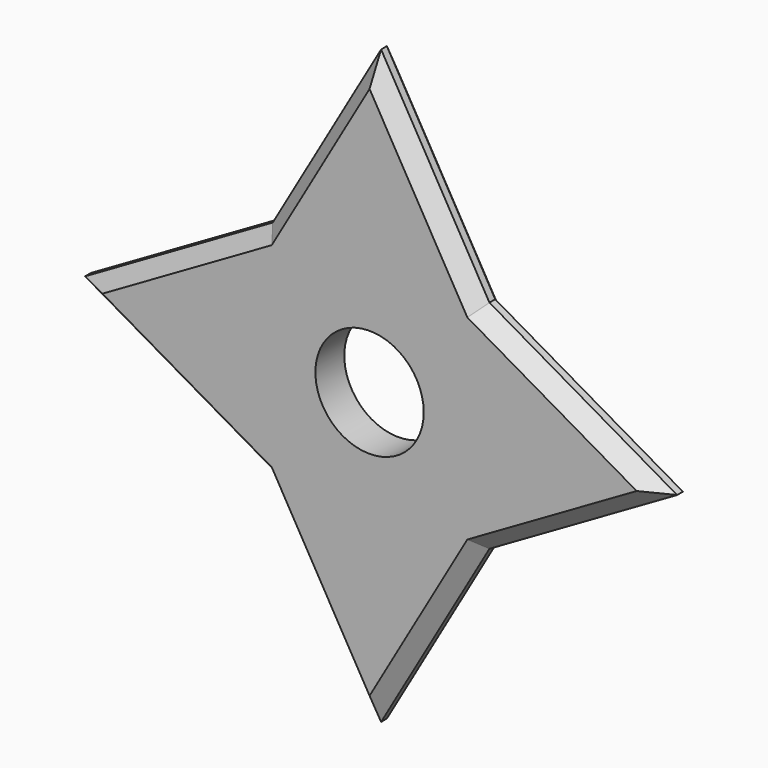
from build123d import *

# Parameters (mm, degrees)
F0_W     = 38.1
F0_H     = 38.1
F0_R     = 9.525
F1_DEPTH = 6.35
F2_SIZE  = 2.54
F3_SIZE  = 2.54


with BuildPart() as f1:
    # F0 (on Front) → F1 (new body)
    with BuildSketch(Plane.XZ):
        with Locations((19.05, 19.05)):
            Rectangle(F0_W, F0_H)
        with Locations((19.05, 19.05)):
            Circle(F0_R, mode=Mode.SUBTRACT)
        Polygon((19.05, 71.095568), (0, 38.1), (38.1, 38.1), align=None)
        Polygon((-32.995568, 19.05), (0, 0), (0, 38.1), align=None)
        Polygon((38.1, 38.1), (38.1, 0), (71.095568, 19.05), align=None)
        Polygon((38.1, 0), (0, 0), (19.05, -32.995568), align=None)
    extrude(amount=F1_DEPTH)

    # F2
    f2_edges = [f1.edges().sort_by_distance(p)[0] for p in [
        (9.525, -6.35, 54.597784),
        (-16.497784, -6.35, 28.575),
        (-16.497784, -6.35, 9.525),
        (9.525, -6.35, -16.497784),
        (28.575, -6.35, -16.497784),
        (54.597784, -6.35, 9.525),
        (54.597784, -6.35, 28.575),
        (28.575, -6.35, 54.597784),
    ]]
    chamfer(f2_edges, length=F2_SIZE)

    # F3
    f3_edges = [f1.edges().sort_by_distance(p)[0] for p in [
        (9.525, 0, -16.497784),
        (28.575, 0, -16.497784),
        (54.597784, 0, 9.525),
        (54.597784, 0, 28.575),
        (28.575, 0, 54.597784),
        (9.525, 0, 54.597784),
        (-16.497784, 0, 28.575),
        (-16.497784, 0, 9.525),
    ]]
    chamfer(f3_edges, length=F3_SIZE)


solid = f1.part
